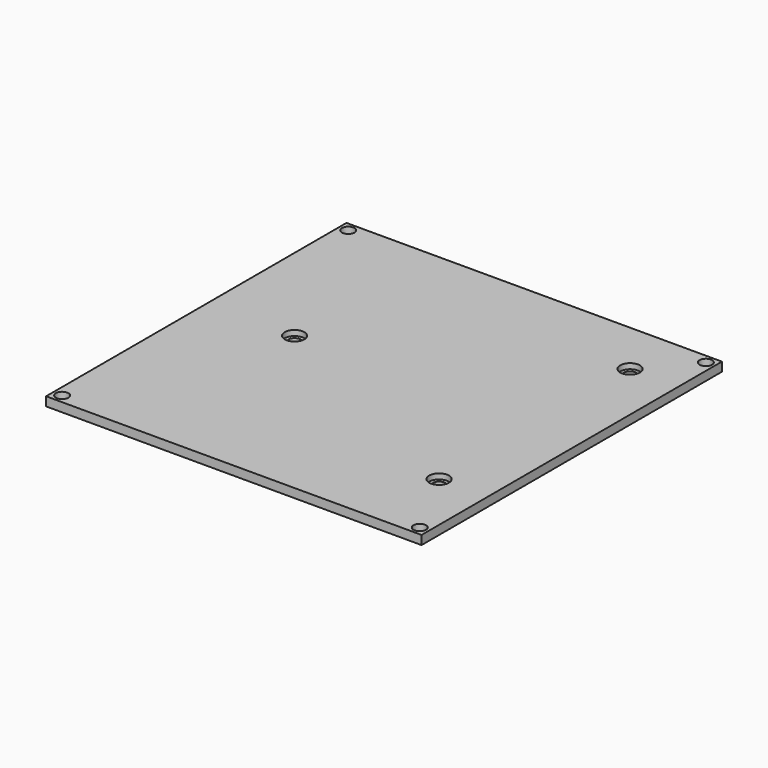
from build123d import *

# Parameters (mm, degrees)
F0_W     = 210
F0_H     = 210
F0_R     = 3.5
F1_DEPTH = 5
F2_R     = 5.5
F3_DEPTH = 3


with BuildPart() as f1:
    # F0 (on Top) → F1 (new body)
    with BuildSketch(Plane.XY):
        Rectangle(F0_W, F0_H)
        with Locations((-100, -100)):
            Circle(F0_R, mode=Mode.SUBTRACT)
        with Locations((100, -100)):
            Circle(F0_R, mode=Mode.SUBTRACT)
        with Locations((78, -59)):
            Circle(F0_R, mode=Mode.SUBTRACT)
        with Locations((-56, 7.5)):
            Circle(F0_R, mode=Mode.SUBTRACT)
        with Locations((-100, 100)):
            Circle(F0_R, mode=Mode.SUBTRACT)
        with Locations((78, 74.5)):
            Circle(F0_R, mode=Mode.SUBTRACT)
        with Locations((100, 100)):
            Circle(F0_R, mode=Mode.SUBTRACT)
    extrude(amount=F1_DEPTH)

    # F2 (on face) → F3 (cut)
    with BuildSketch(Plane.XY.offset(5)):
        with Locations((-56, 7.5)):
            Circle(F2_R)
        with Locations((78, 74.5)):
            Circle(F2_R)
        with Locations((78, -59)):
            Circle(F2_R)
    extrude(amount=-F3_DEPTH, mode=Mode.SUBTRACT)


solid = f1.part
